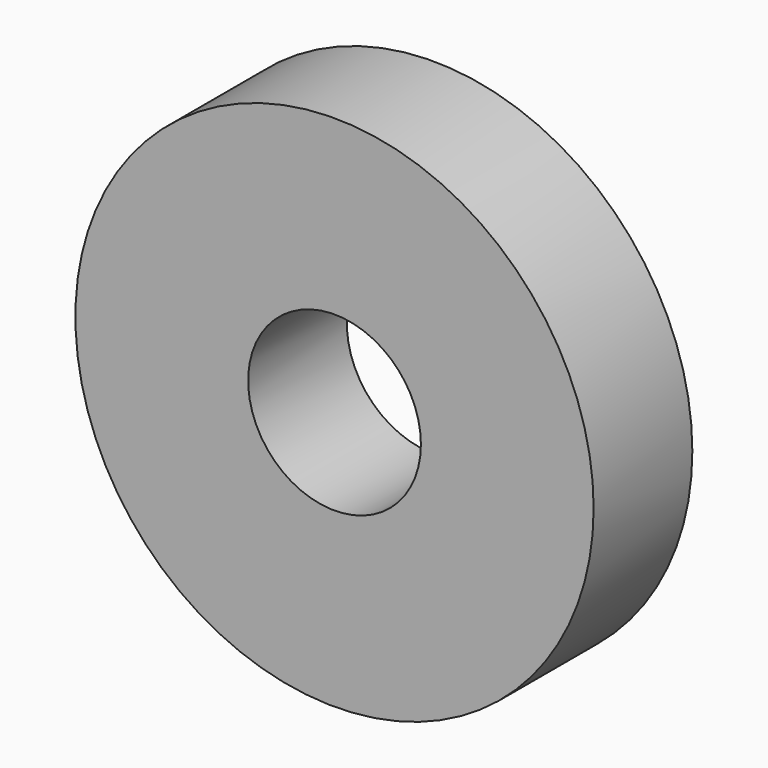
from build123d import *

# Parameters (mm, degrees)
CYLINDER004_R             = 3.5
CYLINDER004_DEPTH         = 10
CYLINDER005_R             = 10.5
CYLINDER005_DEPTH         = 5
CUT005009_PLACEMENT_ANGLE = 90


with BuildPart() as cylinder004:
    # Cylinder004 → Cylinder004 (new body)
    with BuildSketch(Plane.XY.offset(-3)):
        Circle(CYLINDER004_R)
    extrude(amount=CYLINDER004_DEPTH)


with BuildPart() as obj1:
    # Cylinder005 → Cylinder005 (new body)
    with BuildSketch(Plane.XY):
        Circle(CYLINDER005_R)
    extrude(amount=CYLINDER005_DEPTH)

    # Cut005009: cut Cylinder004
    add(cylinder004.part, mode=Mode.SUBTRACT)


with BuildPart() as obj1_1:
    # Cut005009 placement: moved
    add(obj1.part.moved(Location((89, 0.5, 10.4))).rotate(Axis((89, 0.5, 10.4), (1, 0, 0)), CUT005009_PLACEMENT_ANGLE))


solid = obj1_1.part
